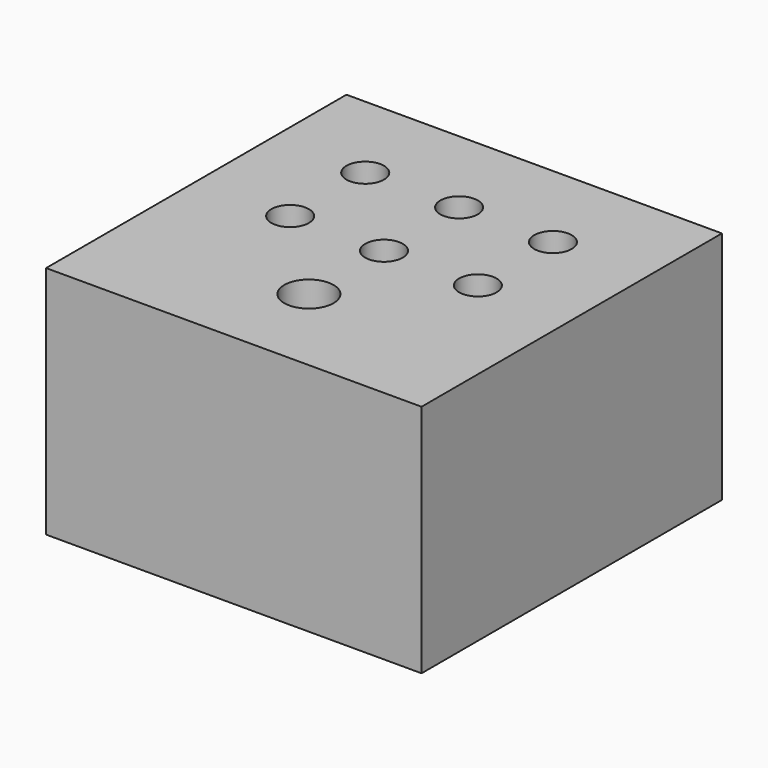
from build123d import *

# Parameters (mm, degrees)
F0_W     = 40
F0_H     = 40
F1_DEPTH = 25
F3_D     = 4
F3_DEPTH = 4
F3_TIP   = 1.2017212381
F4_D     = 4
F4_DEPTH = 6
F4_TIP   = 1.2017212381
F5_D     = 4
F5_DEPTH = 8
F5_TIP   = 1.2017212381
F6_D     = 4
F6_DEPTH = 10
F6_TIP   = 1.2017212381
F7_D     = 4
F7_DEPTH = 12
F7_TIP   = 1.2017212381
F8_D     = 4
F8_DEPTH = 16
F8_TIP   = 1.2017212381
F9_D     = 5.25
F9_DEPTH = 16
F9_TIP   = 1.5772591249


with BuildPart() as f1:
    # F0 (on Top) → F1 (new body)
    with BuildSketch(Plane.XY):
        Rectangle(F0_W, F0_H)
    extrude(amount=F1_DEPTH)

    # F3
    with Locations(Plane.XY.offset(25)):
        with Locations((-10, 10)):
            Hole(F3_D / 2, depth=F3_DEPTH)
            with Locations((0, 0, -(F3_DEPTH + F3_TIP / 2))):  # 118° drill point
                Cone(0, F3_D / 2, F3_TIP, mode=Mode.SUBTRACT)

    # F4
    with Locations(Plane.XY.offset(25)):
        with Locations((0, 10)):
            Hole(F4_D / 2, depth=F4_DEPTH)
            with Locations((0, 0, -(F4_DEPTH + F4_TIP / 2))):  # 118° drill point
                Cone(0, F4_D / 2, F4_TIP, mode=Mode.SUBTRACT)

    # F5
    with Locations(Plane.XY.offset(25)):
        with Locations((10, 10)):
            Hole(F5_D / 2, depth=F5_DEPTH)
            with Locations((0, 0, -(F5_DEPTH + F5_TIP / 2))):  # 118° drill point
                Cone(0, F5_D / 2, F5_TIP, mode=Mode.SUBTRACT)

    # F6
    with Locations(Plane.XY.offset(25)):
        with Locations((-10, 0)):
            Hole(F6_D / 2, depth=F6_DEPTH)
            with Locations((0, 0, -(F6_DEPTH + F6_TIP / 2))):  # 118° drill point
                Cone(0, F6_D / 2, F6_TIP, mode=Mode.SUBTRACT)

    # F7
    with Locations(Plane.XY.offset(25)):
        with Locations((0, 0)):
            Hole(F7_D / 2, depth=F7_DEPTH)
            with Locations((0, 0, -(F7_DEPTH + F7_TIP / 2))):  # 118° drill point
                Cone(0, F7_D / 2, F7_TIP, mode=Mode.SUBTRACT)

    # F8
    with Locations(Plane.XY.offset(25)):
        with Locations((10, 0)):
            Hole(F8_D / 2, depth=F8_DEPTH)
            with Locations((0, 0, -(F8_DEPTH + F8_TIP / 2))):  # 118° drill point
                Cone(0, F8_D / 2, F8_TIP, mode=Mode.SUBTRACT)

    # F9
    with Locations(Plane.XY.offset(25)):
        with Locations((0, -10)):
            Hole(F9_D / 2, depth=F9_DEPTH)
            with Locations((0, 0, -(F9_DEPTH + F9_TIP / 2))):  # 118° drill point
                Cone(0, F9_D / 2, F9_TIP, mode=Mode.SUBTRACT)


solid = f1.part
